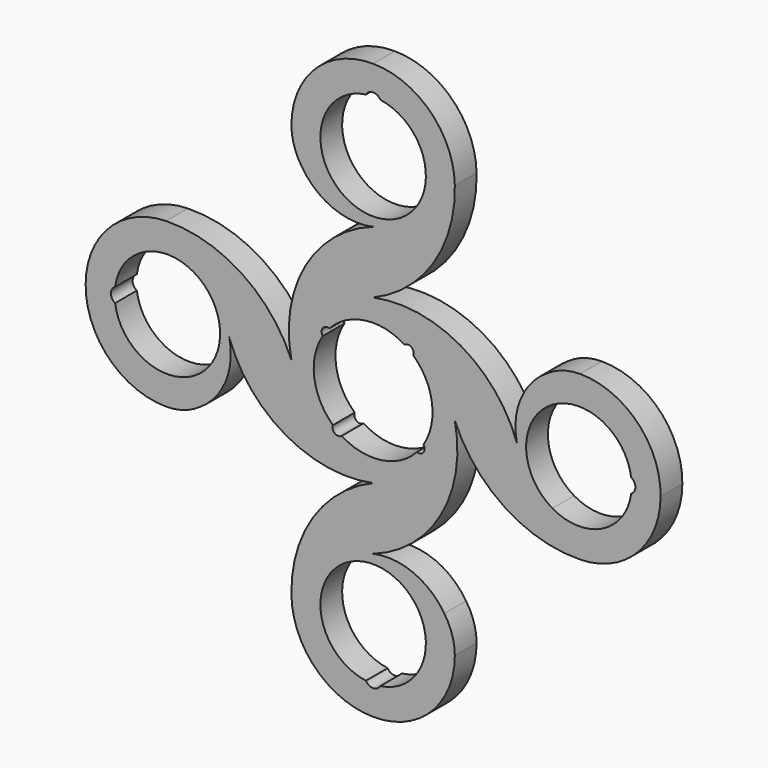
from build123d import *

# Parameters (mm, degrees)
F1_DEPTH = 5


with BuildPart() as f1:
    # F0 (on Front) → F1 (new body)
    with BuildSketch(Plane.XZ):
        with BuildLine():
            ThreePointArc((-13.087342, 31.888098), (-7.395943, 27.119924), (0, 26.466059))
            ThreePointArc((0, 26.466059), (-12.491055, 16.059234), (-15.026697, 0))
            ThreePointArc((-15.026697, 0), (-24.214265, 11.0821), (-38.05856, 15.026697))
            ThreePointArc((-38.05856, 15.026697), (-48.527294, 10.532636), (-52.869477, 0))
            ThreePointArc((-52.869477, 0), (-48.608025, -10.612208), (-38.05856, -15.026697))
            ThreePointArc((-38.05856, -15.026697), (-34.824534, -14.530442), (-31.888098, -13.087342))
            ThreePointArc((-31.888098, -13.087342), (-27.119924, -7.395943), (-26.466059, 0))
            ThreePointArc((-26.466059, 0), (-16.059234, -12.491055), (0, -15.026697))
            ThreePointArc((0, -15.026697), (-11.0821, -24.214265), (-15.026697, -38.05856))
            ThreePointArc((-15.026697, -38.05856), (-10.532636, -48.527294), (0, -52.869477))
            ThreePointArc((0, -52.869477), (10.612208, -48.608025), (15.026697, -38.05856))
            ThreePointArc((15.026697, -38.05856), (14.530442, -34.824534), (13.087342, -31.888098))
            ThreePointArc((13.087342, -31.888098), (7.395943, -27.119924), (0, -26.466059))
            ThreePointArc((0, -26.466059), (12.491055, -16.059234), (15.026697, 0))
            ThreePointArc((15.026697, 0), (24.214265, -11.0821), (38.05856, -15.026697))
            ThreePointArc((38.05856, -15.026697), (48.527294, -10.532636), (52.869477, 0))
            ThreePointArc((52.869477, 0), (48.608025, 10.612208), (38.05856, 15.026697))
            ThreePointArc((38.05856, 15.026697), (34.824534, 14.530442), (31.888098, 13.087342))
            ThreePointArc((31.888098, 13.087342), (27.119924, 7.395943), (26.466059, 0))
            ThreePointArc((26.466059, 0), (16.059234, 12.491055), (0, 15.026697))
            ThreePointArc((0, 15.026697), (11.0821, 24.214265), (15.026697, 38.05856))
            ThreePointArc((15.026697, 38.05856), (10.532636, 48.527294), (0, 52.869477))
            ThreePointArc((0, 52.869477), (-10.612208, 48.608025), (-15.026697, 38.05856))
            ThreePointArc((-15.026697, 38.05856), (-14.530442, 34.824534), (-13.087342, 31.888098))
        make_face()
        with BuildLine():
            ThreePointArc((-1.3206, -47.450892), (-8.715635, -42.098872), (-8.391681, -32.976058))
            ThreePointArc((-8.391681, -32.976058), (8.054828, -32.436604), (1.3206, -47.450892))
            ThreePointArc((1.3206, -47.450892), (0, -48.226212), (-1.3206, -47.450892))
        make_face(mode=Mode.SUBTRACT)
        with BuildLine():
            ThreePointArc((47.450892, -1.3206), (42.098872, -8.715635), (32.976058, -8.391681))
            ThreePointArc((32.976058, -8.391681), (32.436604, 8.054828), (47.450892, 1.3206))
            ThreePointArc((47.450892, 1.3206), (48.226212, 0), (47.450892, -1.3206))
        make_face(mode=Mode.SUBTRACT)
        with BuildLine():
            ThreePointArc((-47.450892, 1.3206), (-42.098872, 8.715635), (-32.976058, 8.391681))
            ThreePointArc((-32.976058, 8.391681), (-32.436604, -8.054828), (-47.450892, -1.3206))
            ThreePointArc((-47.450892, -1.3206), (-48.226212, 0), (-47.450892, 1.3206))
        make_face(mode=Mode.SUBTRACT)
        with BuildLine():
            ThreePointArc((-8.043994, 7.392549), (-1.469949, 10.825658), (5.781512, 9.26983))
            ThreePointArc((5.781512, 9.26983), (7.049843, 9.265157), (7.392549, 8.043994))
            ThreePointArc((7.392549, 8.043994), (10.825658, 1.469949), (9.26983, -5.781512))
            ThreePointArc((9.26983, -5.781512), (9.265157, -7.049843), (8.043994, -7.392549))
            ThreePointArc((8.043994, -7.392549), (1.469949, -10.825658), (-5.781512, -9.26983))
            ThreePointArc((-5.781512, -9.26983), (-7.049843, -9.265157), (-7.392549, -8.043994))
            ThreePointArc((-7.392549, -8.043994), (-10.825658, -1.469949), (-9.26983, 5.781512))
            ThreePointArc((-9.26983, 5.781512), (-9.265157, 7.049843), (-8.043994, 7.392549))
        make_face(mode=Mode.SUBTRACT)
        with BuildLine():
            ThreePointArc((8.391681, 32.976058), (-8.054828, 32.436604), (-1.3206, 47.450892))
            ThreePointArc((-1.3206, 47.450892), (0, 48.226212), (1.3206, 47.450892))
            ThreePointArc((1.3206, 47.450892), (8.715635, 42.098872), (8.391681, 32.976058))
        make_face(mode=Mode.SUBTRACT)
    extrude(amount=F1_DEPTH)


solid = f1.part
